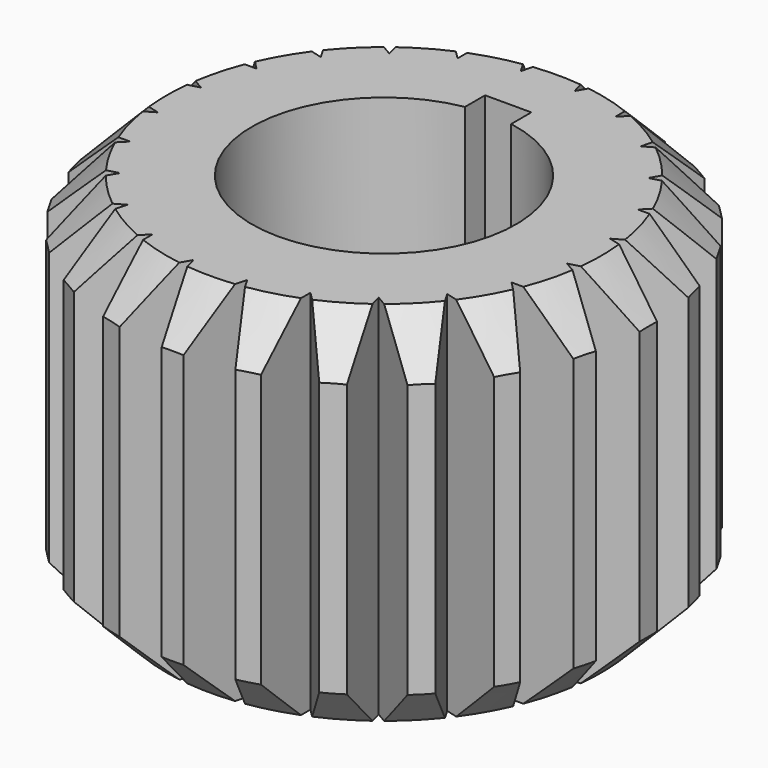
from build123d import *

# Parameters (mm, degrees)
F1_DEPTH = 79.375


with BuildPart() as f1:
    # F0 (on Top) → F1 (new body)
    with BuildSketch(Plane.XY):
        Polygon((2.3622, 57.15), (-2.3622, 57.15), (-5.823357, 44.232787), (-12.509798, 55.814043), (-17.073218, 54.591279), (-17.073218, 41.218395), (-26.529275, 50.674452), (-30.620725, 48.312252), (-27.159568, 35.395039), (-38.740825, 42.08148), (-42.08148, 38.740825), (-35.395039, 27.159568), (-48.312252, 30.620725), (-50.674452, 26.529275), (-41.218395, 17.073218), (-54.591279, 17.073218), (-55.814043, 12.509798), (-44.232787, 5.823357), (-57.15, 2.3622), (-57.15, -2.3622), (-44.232787, -5.823357), (-55.814043, -12.509798), (-54.591279, -17.073218), (-41.218395, -17.073218), (-50.674452, -26.529275), (-48.312252, -30.620725), (-35.395039, -27.159568), (-42.08148, -38.740825), (-38.740825, -42.08148), (-27.159568, -35.395039), (-30.620725, -48.312252), (-26.529275, -50.674452), (-17.073218, -41.218395), (-17.073218, -54.591279), (-12.509798, -55.814043), (-5.823357, -44.232787), (-2.3622, -57.15), (2.3622, -57.15), (5.823357, -44.232787), (12.509798, -55.814043), (17.073218, -54.591279), (17.073218, -41.218395), (26.529275, -50.674452), (30.620725, -48.312252), (27.159568, -35.395039), (38.740825, -42.08148), (42.08148, -38.740825), (35.395039, -27.159568), (48.312252, -30.620725), (50.674452, -26.529275), (41.218395, -17.073218), (54.591279, -17.073218), (55.814043, -12.509798), (44.232787, -5.823357), (57.15, -2.3622), (57.15, 2.3622), (44.232787, 5.823357), (55.814043, 12.509798), (54.591279, 17.073218), (41.218395, 17.073218), (50.674452, 26.529275), (48.312252, 30.620725), (35.395039, 27.159568), (42.08148, 38.740825), (38.740825, 42.08148), (27.159568, 35.395039), (30.620725, 48.312252), (26.529275, 50.674452), (17.073218, 41.218395), (17.073218, 54.591279), (12.509798, 55.814043), (5.823357, 44.232787), align=None)
        with BuildLine():
            Line((-5, 33.575), (5, 33.575))
            Line((5, 33.575), (5, 28.134154))
            ThreePointArc((5, 28.134154), (0, -28.575), (-5, 28.134154))
            Line((-5, 28.134154), (-5, 33.575))
        make_face(mode=Mode.SUBTRACT)
    extrude(amount=F1_DEPTH)

    # F2 (on Front) → F3 (revolve, intersect)
    with BuildSketch(Plane.XZ):
        Polygon((0, -46.99), (0, 126.365), (-86.6775, 39.6875), align=None)
    revolve(axis=Axis((0, 0, 39.6875), (0, 0, -1)), mode=Mode.INTERSECT)


solid = f1.part
